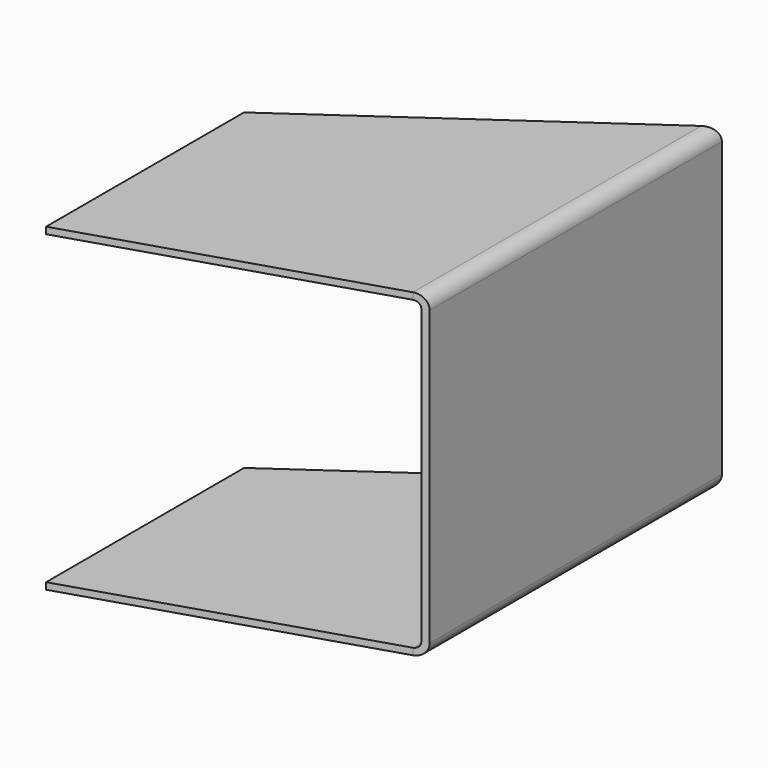
from build123d import *

# Parameters (mm, degrees)
F1_DEPTH = 444.5
F3_DEPTH = 304.801


with BuildPart() as f1:
    # F0 (on Front) → F1 (new body)
    with BuildSketch(Plane.XZ):
        with BuildLine():
            Line((-139.7, -152.4), (139.7, -152.4))
            ThreePointArc((139.7, -152.4), (148.6802561211, -148.6802561211), (152.4, -139.7))
            Line((152.4, -139.7), (152.4, 139.7))
            ThreePointArc((152.4, 139.7), (148.6802561211, 148.6802561211), (139.7, 152.4))
            Line((139.7, 152.4), (-139.7, 152.4))
            ThreePointArc((-139.7, 152.4), (-148.6802561211, 148.6802561211), (-152.4, 139.7))
            Line((-152.4, 139.7), (-152.4, -139.7))
            ThreePointArc((-152.4, -139.7), (-148.6802561211, -148.6802561211), (-139.7, -152.4))
        make_face()
        with BuildLine():
            Line((-139.7, 146.05), (139.7, 146.05))
            ThreePointArc((139.7, 146.05), (144.1901280605, 144.1901280605), (146.05, 139.7))
            Line((146.05, 139.7), (146.05, -139.7))
            ThreePointArc((146.05, -139.7), (144.1901280605, -144.1901280605), (139.7, -146.05))
            Line((139.7, -146.05), (-139.7, -146.05))
            ThreePointArc((-139.7, -146.05), (-144.1901280605, -144.1901280605), (-146.05, -139.7))
            Line((-146.05, -139.7), (-146.05, 139.7))
            ThreePointArc((-146.05, 139.7), (-144.1901280605, 144.1901280605), (-139.7, 146.05))
        make_face(mode=Mode.SUBTRACT)
    extrude(amount=F1_DEPTH)

    # F2 (on face) → F3 (cut, through all)
    with BuildSketch(Plane.XY.offset(152.4)):
        Polygon((-139.7, -444.5), (139.7, -444.5), (139.7, -352.4012237684), (-139.7, -440.4957053812), align=None)
        Polygon((139.7, -444.5), (152.4, -444.5), (152.4, -348.3969291497), (139.7, -352.4012237684), align=None)
        Polygon((-152.4, -444.5), (-139.7, -444.5), (-139.7, -440.4957053812), align=None)
        Polygon((139.7, -8.8926357353), (139.7, 0), (-139.7, 0), (-139.7, -204.5306219111), align=None)
        Polygon((-139.7, -204.5306219111), (-139.7, 0), (-152.4, 0), (-152.4, -213.4232576463), align=None)
        Polygon((139.7, -8.8926357353), (152.4, 0), (139.7, 0), align=None)
        Polygon((-152.4, -444.5), (-139.7, -440.4957053812), (-139.7, -204.5306219111), (-152.4, -213.4232576463), align=None)
    extrude(amount=-F3_DEPTH, mode=Mode.SUBTRACT)


solid = f1.part
